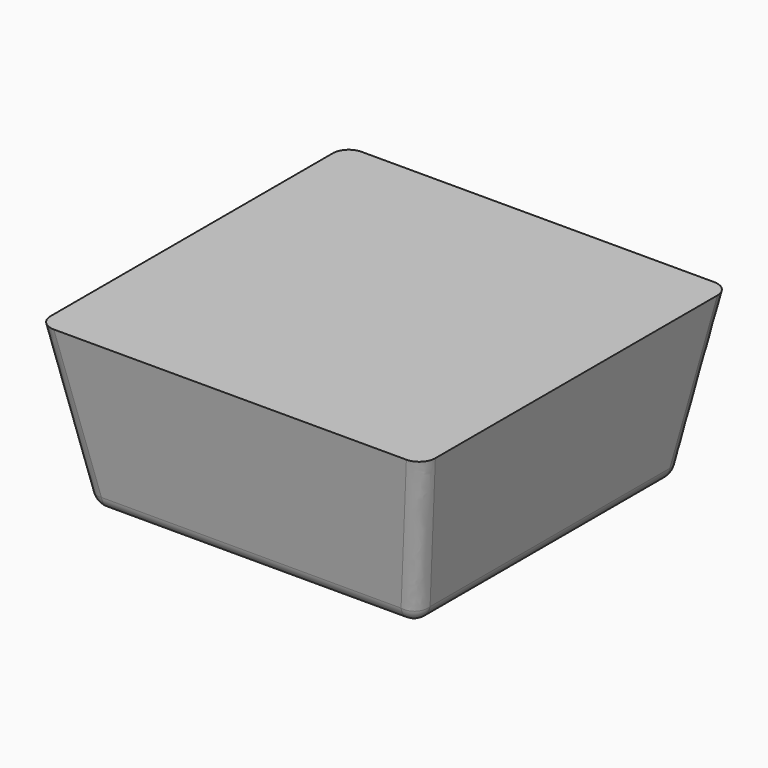
from build123d import *

# Parameters (mm, degrees)
F0_W     = 20
F0_H     = 20
F1_DEPTH = 10
F1_TAPER = -10
F2_R     = 1
F3_R     = 2.7900254732
F3_R_2   = 2.5276520244
F5_DEPTH = 5
F6_R     = 1.1312080983
F6_R_2   = 0.8112646033
F7_DEPTH = 5
F8_DEPTH = 5
F9_DEPTH = 5


with BuildPart() as f1:
    # F0 (on Top) → F1 (new body)
    with BuildSketch(Plane.XY):
        Rectangle(F0_W, F0_H)
    extrude(amount=F1_DEPTH, taper=F1_TAPER)

    # F2
    f2_edges = [f1.edges().sort_by_distance(p)[0] for p in [
        (-10.881635, -10.881635, 5),
        (0, -10, 0),
        (10, 0, 0),
        (10.881635, -10.881635, 5),
        (10.881635, 10.881635, 5),
        (-10.881635, 10.881635, 5),
        (-10, 0, 0),
        (0, 10, 0),
    ]]
    fillet(f2_edges, radius=F2_R)

    # F3 (on face) → F5 (cut)
    with BuildSketch(Plane(origin=(0, 0, 0), x_dir=(1, 0, 0), z_dir=(0, 0, -1))):
        with Locations((-5.0120754167, 3.0229531694)):
            Circle(F3_R)
        with Locations((4.1890102439, 2.713301219)):
            Circle(F3_R_2)
    extrude(amount=-F5_DEPTH, mode=Mode.SUBTRACT)

    # F6 (on face) → F7 (cut)
    with BuildSketch(Plane(origin=(0, 0, 0), x_dir=(1, 0, 0), z_dir=(0, 0, -1))):
        Circle(F6_R)
        Circle(F6_R_2, mode=Mode.SUBTRACT)
    extrude(amount=-F7_DEPTH, mode=Mode.SUBTRACT)

    # F4 (on face) → F8 (cut)
    with BuildSketch(Plane(origin=(0, 0, 0), x_dir=(1, 0, 0), z_dir=(0, 0, -1))):
        with BuildLine():
            add(Edge.make_bspline(
                [(-6.4276270568, -3.7009168882), (-5.5084811908, -2.4301449225), (10.1584902455, -2.1593959712), (2.6631057642, -7.0862087042), (0.4970899152, -7.340655867), (-7.1113923099, -4.6462616335), (-6.4276270568, -3.7009168882)],
                knots=[0, 0, 0, 0, 0.3513337162, 0.546326184, 0.7386380158, 1, 1, 1, 1], degree=3))
        make_face()
    extrude(amount=-F8_DEPTH, mode=Mode.SUBTRACT)

    # F9 (cut): a face of the model
    f9_faces = [f1.faces().sort_by_distance(p)[0] for p in [
        (0, 0, 0),
    ]]
    extrude(f9_faces, amount=-F9_DEPTH, mode=Mode.SUBTRACT)


solid = f1.part
